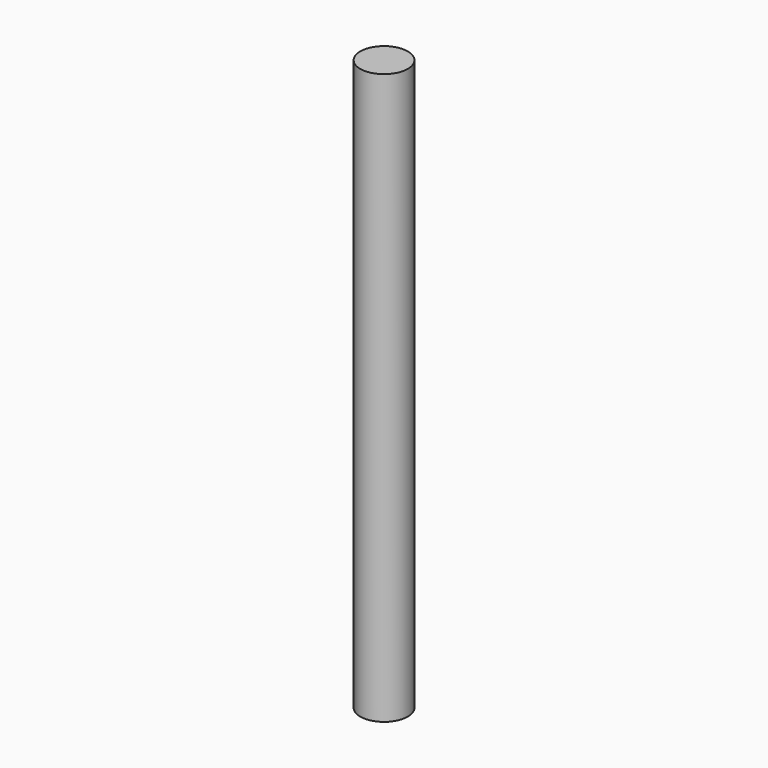
from build123d import *

# Parameters (mm, degrees)
SKETCH002_R         = 7.5
PAD001_DEPTH        = 180
SKETCH001_W         = 12.7
SKETCH001_H         = 12.7
PAD_DEPTH           = 180
SKETCH006_W         = 12
SKETCH006_H         = 12
POCKET_DEPTH        = 1
SKETCH005_W         = 20
SKETCH005_H         = 2
LINEARPATTERN_COUNT = 20
LINEARPATTERN_PITCH = 7.894737
SKETCH007_W         = 10
SKETCH007_H         = 12


with BuildPart() as pad001:
    # Sketch002 → Pad001 (new body)
    with BuildSketch(Plane.XY):
        Circle(SKETCH002_R)
    extrude(amount=PAD001_DEPTH)


with BuildPart() as groove001:
    # Sketch001 → Pad (new body)
    with BuildSketch(Plane.XY):
        Rectangle(SKETCH001_W, SKETCH001_H)
    extrude(amount=PAD_DEPTH)

    # Sketch006 → Pocket (cut)
    with BuildSketch(Plane(origin=(0, 0, 0), x_dir=(1, 0, 0), z_dir=(0, 0, -1))):
        with Locations((-6, 6)):
            Rectangle(SKETCH006_W, SKETCH006_H)
    extrude(amount=-POCKET_DEPTH, mode=Mode.SUBTRACT)

    # Sketch005 → Groove (revolve, cut)
    with BuildSketch(Plane.XZ):
        with Locations((-16, 11)):
            Rectangle(SKETCH005_W, SKETCH005_H)
    groove = revolve(axis=Axis((0, 0, 0), (0, 0, 1)), mode=Mode.SUBTRACT)

    # LinearPattern: Groove ×20
    with Locations(*[(0, 0, i * LINEARPATTERN_PITCH) for i in range(1, LINEARPATTERN_COUNT)]):
        add(groove, mode=Mode.SUBTRACT)

    # Sketch007 → Groove001 (revolve, cut)
    with BuildSketch(Plane.XZ):
        with Locations((-11.35, 6)):
            Rectangle(SKETCH007_W, SKETCH007_H)
    revolve(axis=Axis((0, 0, 0), (0, 0, 1)), mode=Mode.SUBTRACT)


with BuildPart() as common:
    # Cone → Cone (revolve)
    with BuildSketch(Plane(origin=(0, 0, 12), x_dir=(1, 0, 0), z_dir=(0, -1, 0))):
        Polygon((0, 0), (6.5, 0), (7.5, 150), (0, 150), align=None)
    revolve(axis=Axis((0, 0, 12), (0, 0, 1)))

    # Common: intersect Groove001
    add(groove001.part, mode=Mode.INTERSECT)


solid = Compound([pad001.part, common.part])
